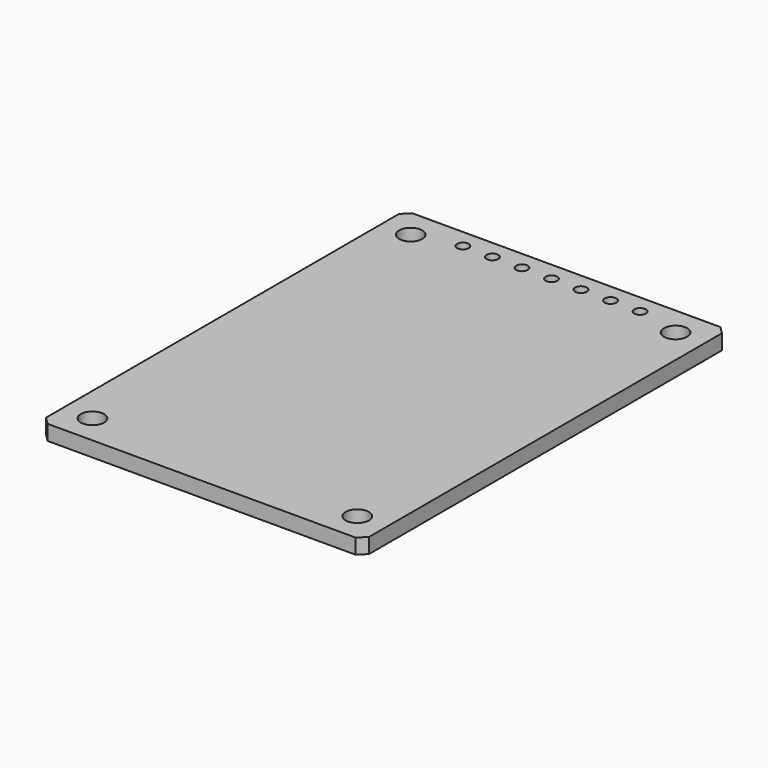
from build123d import *

# Parameters (mm, degrees)
SKETCH_R            = 1
PAD_DEPTH           = 1.3
SKETCH002_R         = 0.5
POCKET_DEPTH        = 0.001
POCKET_DEPTH_BACK   = 1.301
LINEARPATTERN_COUNT = 7
LINEARPATTERN_PITCH = 2.54


with BuildPart() as part:
    # Sketch → Pad (new body)
    with BuildSketch(Plane.XY):
        Polygon((-13.25, 19.61), (13.25, 19.61), (13.89, 18.97), (13.89, -18.97), (13.25, -19.61), (-13.25, -19.61), (-13.89, -18.97), (-13.89, 18.97), align=None)
        with Locations((11.39, 17.11)):
            Circle(SKETCH_R, mode=Mode.SUBTRACT)
        with Locations((-11.39, 17.11)):
            Circle(SKETCH_R, mode=Mode.SUBTRACT)
        with Locations((-11.39, -17.11)):
            Circle(SKETCH_R, mode=Mode.SUBTRACT)
        with Locations((11.39, -17.11)):
            Circle(SKETCH_R, mode=Mode.SUBTRACT)
    extrude(amount=PAD_DEPTH)

    # Sketch002 → Pocket (cut, two sides)
    with BuildSketch(Plane.XY) as pocket_sk:
        with Locations((-7.62, 18.01)):
            Circle(SKETCH002_R)
    pocket = extrude(amount=-POCKET_DEPTH, mode=Mode.SUBTRACT) + extrude(pocket_sk.sketch, amount=POCKET_DEPTH_BACK, mode=Mode.SUBTRACT)

    # LinearPattern: Pocket ×7
    with Locations(*[(i * LINEARPATTERN_PITCH, 0, 0) for i in range(1, LINEARPATTERN_COUNT)]):
        add(pocket, mode=Mode.SUBTRACT)


solid = part.part
